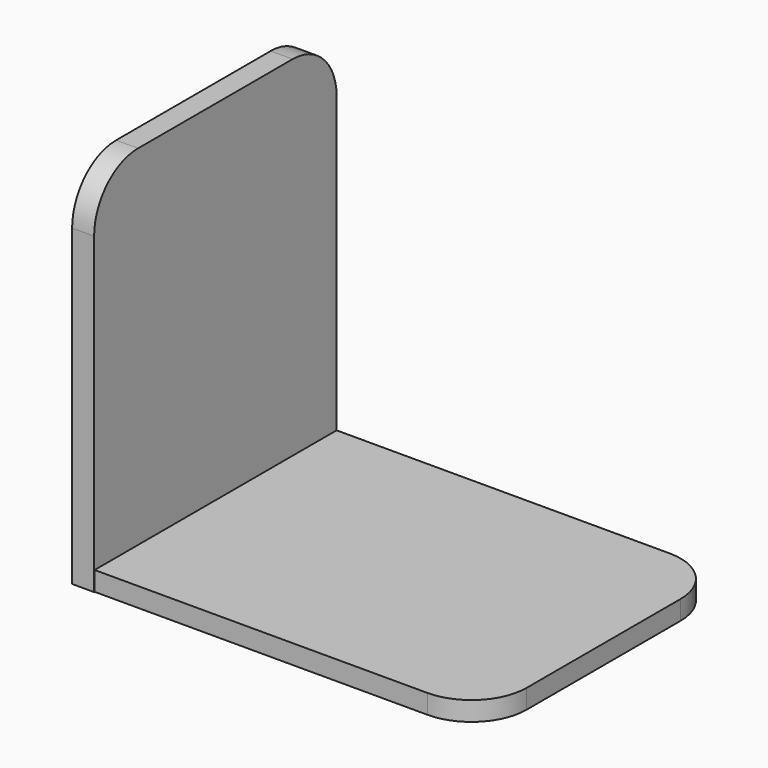
from build123d import *

# Parameters (mm, degrees)
F0_W     = 35.840278
F0_H     = 27.943753
F1_DEPTH = 1.778
F2_R     = 5.08
F3_W     = 28.001948
F3_H     = 34.032471
F4_DEPTH = 2.032
F5_R     = 5.08


with BuildPart() as f1:
    # F0 (on Top) → F1 (new body)
    with BuildSketch(Plane.XY):
        with Locations((30.8081, 38.094725)):
            Rectangle(F0_W, F0_H)
    extrude(amount=F1_DEPTH)

    # F2
    f2_edges = [f1.edges().sort_by_distance(p)[0] for p in [
        (48.728239, 24.122849, 0.889),
        (48.728239, 52.066602, 0.889),
    ]]
    fillet(f2_edges, radius=F2_R)

    # F3 (on face) → F4 (join)
    with BuildSketch(Plane(origin=(12.887961, 0, 0), x_dir=(0, -1, 0), z_dir=(-1, 0, 0))):
        with Locations((-38.065628, 17.016236)):
            Rectangle(F3_W, F3_H)
    extrude(amount=F4_DEPTH)

    # F5
    f5_edges = [f1.edges().sort_by_distance(p)[0] for p in [
        (11.871961, 52.066602, 34.032471),
        (11.871961, 24.064654, 34.032471),
    ]]
    fillet(f5_edges, radius=F5_R)


solid = f1.part
